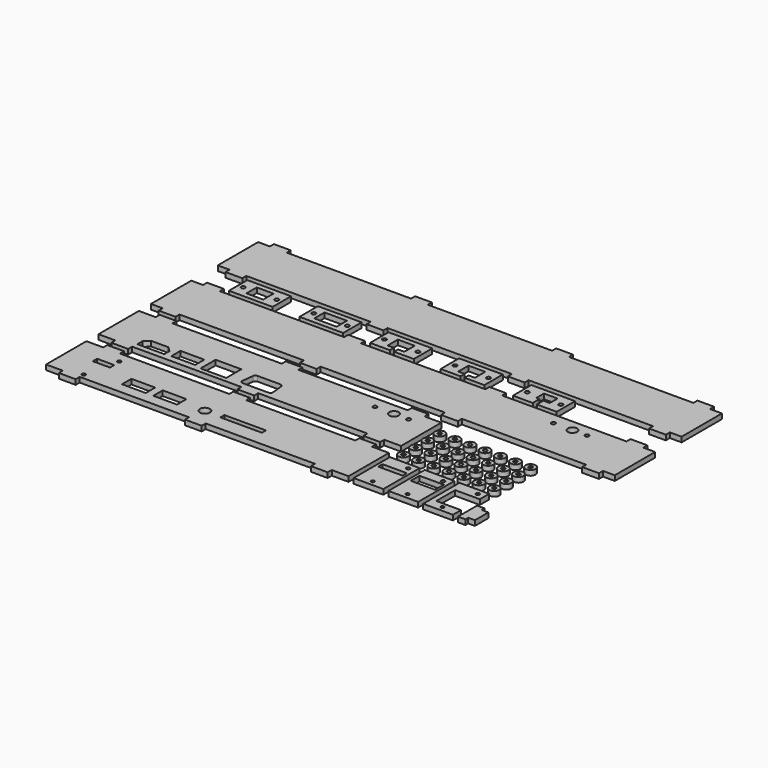
from build123d import *

# Parameters (mm, degrees)
F0_R      = 1.1
F0_W      = 14.119998
F0_H      = 6.999998
F0_W_2    = 14.12
F0_H_2    = 7
F0_W_3    = 10.2
F0_H_3    = 3.2
F0_R_2    = 3.000002
F0_W_4    = 24.75
F0_H_4    = 3
F1_DEPTH  = 3
F0_W_5    = 14.2
F0_H_5    = 6.8
F0_W_6    = 15.299998
F0_H_6    = 11.199998
F0_R_3    = 1.2
F0_R_4    = 2.8
F2_DEPTH  = 3
F3_DEPTH  = 3
F4_DEPTH  = 3
F0_W_7    = 26
F0_H_7    = 13.7
F0_W_8    = 10
F0_H_8    = 7.7
F5_DEPTH  = 3
F0_W_9    = 13.3
F6_DEPTH  = 3
F7_DEPTH  = 3
F8_DEPTH  = 3
F9_DEPTH  = 3
F0_W_10   = 17.7
F0_H_9    = 27
F0_R_5    = 1
F0_W_11   = 14.5
F10_DEPTH = 3
F0_H_10   = 6.5
F11_DEPTH = 3
F12_DEPTH = 3
F13_DEPTH = 3
F0_R_6    = 3
F14_DEPTH = 3
F15_DEPTH = 3


with BuildPart() as f1:
    # F0 (on Top) → F1 (new body)
    with BuildSketch(Plane.XY):
        Polygon((90, 5), (95, 5), (100, 5), (100, 8), (165, 8), (165, 5), (175, 5), (175, 8), (185, 8), (185, 23), (185, 38), (175, 38), (175, 41), (165, 41), (165, 38), (100, 38), (100, 41), (95, 41), (90, 41), (90, 38), (25, 38), (25, 41), (15, 41), (15, 38), (5, 38), (5, 23), (5, 8), (15, 8), (15, 5), (25, 5), (25, 8), (90, 8), align=None)
        with Locations((25, 11)):
            Circle(F0_R, mode=Mode.SUBTRACT)
        with Locations((52.04, 18)):
            Rectangle(F0_W, F0_H, mode=Mode.SUBTRACT)
        with Locations((70.65, 18)):
            Rectangle(F0_W_2, F0_H_2, mode=Mode.SUBTRACT)
        with Locations((25, 25.7)):
            Rectangle(F0_W_3, F0_H_3, mode=Mode.SUBTRACT)
        with Locations((29.7, 31.5)):
            Circle(F0_R, mode=Mode.SUBTRACT)
        with Locations((91.7, 17.75)):
            Circle(F0_R_2, mode=Mode.SUBTRACT)
        with Locations((113.9, 18.5)):
            Rectangle(F0_W_4, F0_H_4, mode=Mode.SUBTRACT)
    extrude(amount=F1_DEPTH)


with BuildPart() as f2:
    # F0 (on Top) → F2 (new body)
    with BuildSketch(Plane.XY):
        Polygon((90, 44), (95, 44), (100, 44), (100, 47), (165, 47), (165, 44), (175, 44), (175, 47), (185, 47), (185, 62), (185, 77), (175, 77), (175, 80), (165, 80), (165, 77), (100, 77), (100, 80), (95, 80), (90, 80), (90, 77), (25, 77), (25, 80), (15, 80), (15, 77), (5, 77), (5, 62), (5, 47), (15, 47), (15, 44), (25, 44), (25, 47), (90, 47), align=None)
        Polygon((38.607107, 57.050001), (41.400001, 54.257107), (41.400001, 50.399999), (25.399999, 50.399999), (25.399999, 54.257107), (28.192893, 57.050001), align=None, mode=Mode.SUBTRACT)
        with Locations((52.3, 54.3)):
            Rectangle(F0_W_5, F0_H_5, mode=Mode.SUBTRACT)
        with Locations((71.2, 55.3)):
            Rectangle(F0_W_6, F0_H_6, mode=Mode.SUBTRACT)
        with BuildLine():
            ThreePointArc((87.310959, 58.986946), (87.836777, 59.995641), (88.9, 60.4))
            Line((88.9, 60.4), (102.5, 60.4))
            ThreePointArc((102.5, 60.4), (103.563223, 59.995641), (104.089041, 58.986946))
            Line((104.089041, 58.986946), (104.889041, 52.186946))
            ThreePointArc((104.889041, 52.186946), (104.495641, 50.936777), (103.3, 50.4))
            Line((103.3, 50.4), (88.1, 50.4))
            ThreePointArc((88.1, 50.4), (86.904359, 50.936777), (86.510959, 52.186946))
            Line((86.510959, 52.186946), (87.310959, 58.986946))
        make_face(mode=Mode.SUBTRACT)
        with Locations((151, 70.15)):
            Circle(F0_R_3, mode=Mode.SUBTRACT)
        with Locations((162.3, 70.15)):
            Circle(F0_R_4, mode=Mode.SUBTRACT)
        with Locations((171, 70.15)):
            Circle(F0_R_3, mode=Mode.SUBTRACT)
    extrude(amount=F2_DEPTH)


with BuildPart() as f3:
    # F0 (on Top) → F3 (new body)
    with BuildSketch(Plane.XY):
        Polygon((106, 86), (143, 86), (180, 86), (180, 83), (190, 83), (190, 86), (264, 86), (264, 83), (274, 83), (274, 86), (281, 86), (281, 101), (281, 116), (274, 116), (274, 119), (264, 119), (264, 116), (190, 116), (190, 119), (180, 119), (180, 116), (143, 116), (106, 116), (106, 119), (96, 119), (96, 116), (22, 116), (22, 119), (12, 119), (12, 116), (5, 116), (5, 101), (5, 86), (12, 86), (12, 83), (22, 83), (22, 86), (96, 86), (96, 83), (106, 83), align=None)
        with Locations((226, 109.15)):
            Circle(F0_R_3, mode=Mode.SUBTRACT)
        with Locations((237.3, 109.15)):
            Circle(F0_R_4, mode=Mode.SUBTRACT)
        with Locations((246, 109.15)):
            Circle(F0_R_3, mode=Mode.SUBTRACT)
    extrude(amount=F3_DEPTH)


with BuildPart() as f4:
    # F0 (on Top) → F4 (new body)
    with BuildSketch(Plane.XY):
        Polygon((106, 135.7), (143, 135.7), (180, 135.7), (180, 132.7), (190, 132.7), (190, 135.7), (264, 135.7), (264, 132.7), (274, 132.7), (274, 135.7), (281, 135.7), (281, 150.7), (281, 165.7), (274, 165.7), (274, 168.7), (264, 168.7), (264, 165.7), (190, 165.7), (190, 168.7), (180, 168.7), (180, 165.7), (143, 165.7), (106, 165.7), (106, 168.7), (96, 168.7), (96, 165.7), (22, 165.7), (22, 168.7), (12, 168.7), (12, 165.7), (5, 165.7), (5, 150.7), (5, 135.7), (12, 135.7), (12, 132.7), (22, 132.7), (22, 135.7), (96, 135.7), (96, 132.7), (106, 132.7), align=None)
    extrude(amount=F4_DEPTH)


with BuildPart() as f5:
    # F0 (on Top) → F5 (new body)
    with BuildSketch(Plane.XY):
        with Locations((38, 125.85)):
            Rectangle(F0_W_7, F0_H_7)
        with Locations((28, 125.85)):
            Circle(F0_R_3, mode=Mode.SUBTRACT)
        with Locations((38, 125.85)):
            Rectangle(F0_W_8, F0_H_8, mode=Mode.SUBTRACT)
        with Locations((48, 125.85)):
            Circle(F0_R_3, mode=Mode.SUBTRACT)
    extrude(amount=F5_DEPTH)


with BuildPart() as f6:
    # F0 (on Top) → F6 (new body)
    with BuildSketch(Plane.XY):
        with Locations((80, 125.85)):
            Rectangle(F0_W_7, F0_H_7)
        with Locations((70, 125.85)):
            Circle(F0_R_3, mode=Mode.SUBTRACT)
        with Locations((80, 125.85)):
            Rectangle(F0_W_9, F0_H_8, mode=Mode.SUBTRACT)
        with Locations((90, 125.85)):
            Circle(F0_R_3, mode=Mode.SUBTRACT)
    extrude(amount=F6_DEPTH)


with BuildPart() as f7:
    # F0 (on Top) → F7 (new body)
    with BuildSketch(Plane.XY):
        Polygon((135, 119), (135, 132.7), (109, 132.7), (109, 119), (120.8, 119), (120.8, 122), (117, 122), (117, 129.7), (127, 129.7), (127, 122), (123.2, 122), (123.2, 119), align=None)
        with Locations((112, 125.85)):
            Circle(F0_R_3, mode=Mode.SUBTRACT)
        with Locations((132, 125.85)):
            Circle(F0_R_3, mode=Mode.SUBTRACT)
    extrude(amount=F7_DEPTH)


with BuildPart() as f8:
    # F0 (on Top) → F8 (new body)
    with BuildSketch(Plane.XY):
        Polygon((177, 119), (177, 132.7), (151, 132.7), (151, 119), (162.8, 119), (162.8, 122), (159, 122), (159, 129.7), (169, 129.7), (169, 122), (165.2, 122), (165.2, 119), align=None)
        with Locations((154, 125.85)):
            Circle(F0_R_3, mode=Mode.SUBTRACT)
        with Locations((174, 125.85)):
            Circle(F0_R_3, mode=Mode.SUBTRACT)
    extrude(amount=F8_DEPTH)


with BuildPart() as f9:
    # F0 (on Top) → F9 (new body)
    with BuildSketch(Plane.XY):
        Polygon((220, 119), (220, 132.7), (194, 132.7), (194, 119), (205.8, 119), (205.8, 123.9), (203.9, 123.9), (203.9, 129.7), (212, 129.7), (212, 123.9), (208.2, 123.9), (208.2, 119), align=None)
        with Locations((197, 125.85)):
            Circle(F0_R_3, mode=Mode.SUBTRACT)
        with Locations((217, 125.85)):
            Circle(F0_R_3, mode=Mode.SUBTRACT)
    extrude(amount=F9_DEPTH)


with BuildPart() as f10:
    # F0 (on Top) → F10 (new body)
    with BuildSketch(Plane.XY):
        with Locations((196.85, 21.5)):
            Rectangle(F0_W_10, F0_H_9)
        with Locations((197, 11)):
            Circle(F0_R_5, mode=Mode.SUBTRACT)
        with Locations((197, 25.7)):
            Rectangle(F0_W_11, F0_H_3, mode=Mode.SUBTRACT)
        with Locations((201.7, 31.5)):
            Circle(F0_R, mode=Mode.SUBTRACT)
    extrude(amount=F10_DEPTH)


with BuildPart() as f11:
    # F0 (on Top) → F11 (new body)
    with BuildSketch(Plane.XY):
        with Locations((217.55, 21.5)):
            Rectangle(F0_W_10, F0_H_9)
        with Locations((217.7, 11)):
            Circle(F0_R_5, mode=Mode.SUBTRACT)
        with Locations((217.7, 25.7)):
            Rectangle(F0_W_11, F0_H_10, mode=Mode.SUBTRACT)
        with Locations((222.4, 31.5)):
            Circle(F0_R, mode=Mode.SUBTRACT)
    extrude(amount=F11_DEPTH)


with BuildPart() as f12:
    # F0 (on Top) → F12 (new body)
    with BuildSketch(Plane.XY):
        Polygon((232.4, 28), (247.1, 28), (247.1, 35), (229.4, 35), (229.4, 8), (247.1, 8), (247.1, 14), (232.4, 14), align=None)
        with Locations((238.4, 11)):
            Circle(F0_R_5, mode=Mode.SUBTRACT)
        with Locations((243.1, 31.5)):
            Circle(F0_R, mode=Mode.SUBTRACT)
    extrude(amount=F12_DEPTH)


with BuildPart() as f13:
    # F0 (on Top) → F13 (new body)
    with BuildSketch(Plane.XY):
        Polygon((254.5, 22.2), (250.1, 22.2), (250.1, 8), (254.5, 8), (254.5, 10.1), (258.5, 10.1), (258.5, 20.1), (254.5, 20.1), align=None)
    extrude(amount=F13_DEPTH)


with BuildPart() as f14:
    # F0 (on Top) → F14 (new body)
    with BuildSketch(Plane.XY):
        with Locations((191.300005, 41)):
            Circle(F0_R_6)
        with Locations((191.300005, 41)):
            Circle(F0_R, mode=Mode.SUBTRACT)
    extrude(amount=F14_DEPTH)


with BuildPart() as f15:
    # F0 (on Top) → F15 (new body)
    with BuildSketch(Plane.XY):
        with Locations((200.300005, 41)):
            Circle(F0_R_6)
        with Locations((200.300005, 41)):
            Circle(F0_R, mode=Mode.SUBTRACT)
        with Locations((209.300005, 41)):
            Circle(F0_R_6)
        with Locations((209.300005, 41)):
            Circle(F0_R, mode=Mode.SUBTRACT)
        with Locations((218.300005, 41)):
            Circle(F0_R_6)
        with Locations((218.300005, 41)):
            Circle(F0_R, mode=Mode.SUBTRACT)
        with Locations((227.300005, 41)):
            Circle(F0_R_6)
        with Locations((227.300005, 41)):
            Circle(F0_R, mode=Mode.SUBTRACT)
        with Locations((236.300005, 41)):
            Circle(F0_R_6)
        with Locations((236.300005, 41)):
            Circle(F0_R, mode=Mode.SUBTRACT)
        with Locations((245.300005, 41)):
            Circle(F0_R_6)
        with Locations((245.300005, 41)):
            Circle(F0_R, mode=Mode.SUBTRACT)
        with Locations((245.300005, 50)):
            Circle(F0_R_6)
        with Locations((245.300005, 50)):
            Circle(F0_R, mode=Mode.SUBTRACT)
        with Locations((236.300005, 50)):
            Circle(F0_R_6)
        with Locations((236.300005, 50)):
            Circle(F0_R, mode=Mode.SUBTRACT)
        with Locations((227.300005, 50)):
            Circle(F0_R_6)
        with Locations((227.300005, 50)):
            Circle(F0_R, mode=Mode.SUBTRACT)
        with Locations((218.300005, 50)):
            Circle(F0_R_6)
        with Locations((218.300005, 50)):
            Circle(F0_R, mode=Mode.SUBTRACT)
        with Locations((209.300005, 50)):
            Circle(F0_R_6)
        with Locations((209.300005, 50)):
            Circle(F0_R, mode=Mode.SUBTRACT)
        with Locations((200.300005, 50)):
            Circle(F0_R_6)
        with Locations((200.300005, 50)):
            Circle(F0_R, mode=Mode.SUBTRACT)
        with Locations((191.300005, 50)):
            Circle(F0_R_6)
        with Locations((191.300005, 50)):
            Circle(F0_R, mode=Mode.SUBTRACT)
        with Locations((191.300005, 59)):
            Circle(F0_R_6)
        with Locations((191.300005, 59)):
            Circle(F0_R, mode=Mode.SUBTRACT)
        with Locations((200.300005, 59)):
            Circle(F0_R_6)
        with Locations((200.300005, 59)):
            Circle(F0_R, mode=Mode.SUBTRACT)
        with Locations((209.300005, 59)):
            Circle(F0_R_6)
        with Locations((209.300005, 59)):
            Circle(F0_R, mode=Mode.SUBTRACT)
        with Locations((218.300005, 59)):
            Circle(F0_R_6)
        with Locations((218.300005, 59)):
            Circle(F0_R, mode=Mode.SUBTRACT)
        with Locations((227.300005, 59)):
            Circle(F0_R_6)
        with Locations((227.300005, 59)):
            Circle(F0_R, mode=Mode.SUBTRACT)
        with Locations((236.300005, 59)):
            Circle(F0_R_6)
        with Locations((236.300005, 59)):
            Circle(F0_R, mode=Mode.SUBTRACT)
        with Locations((245.300005, 59)):
            Circle(F0_R_6)
        with Locations((245.300005, 59)):
            Circle(F0_R, mode=Mode.SUBTRACT)
        with Locations((245.300005, 68)):
            Circle(F0_R_6)
        with Locations((245.300005, 68)):
            Circle(F0_R, mode=Mode.SUBTRACT)
        with Locations((236.300005, 68)):
            Circle(F0_R_6)
        with Locations((236.300005, 68)):
            Circle(F0_R, mode=Mode.SUBTRACT)
        with Locations((227.300005, 68)):
            Circle(F0_R_6)
        with Locations((227.300005, 68)):
            Circle(F0_R, mode=Mode.SUBTRACT)
        with Locations((218.300005, 68)):
            Circle(F0_R_6)
        with Locations((218.300005, 68)):
            Circle(F0_R, mode=Mode.SUBTRACT)
        with Locations((209.300005, 68)):
            Circle(F0_R_6)
        with Locations((209.300005, 68)):
            Circle(F0_R, mode=Mode.SUBTRACT)
        with Locations((200.300005, 68)):
            Circle(F0_R_6)
        with Locations((200.300005, 68)):
            Circle(F0_R, mode=Mode.SUBTRACT)
        with Locations((191.300005, 68)):
            Circle(F0_R_6)
        with Locations((191.300005, 68)):
            Circle(F0_R, mode=Mode.SUBTRACT)
    extrude(amount=F15_DEPTH)


solid = Compound([f1.part, f2.part, f3.part, f4.part, f5.part, f6.part, f7.part, f8.part, f9.part, f10.part, f11.part, f12.part, f13.part, f14.part, f15.part])
